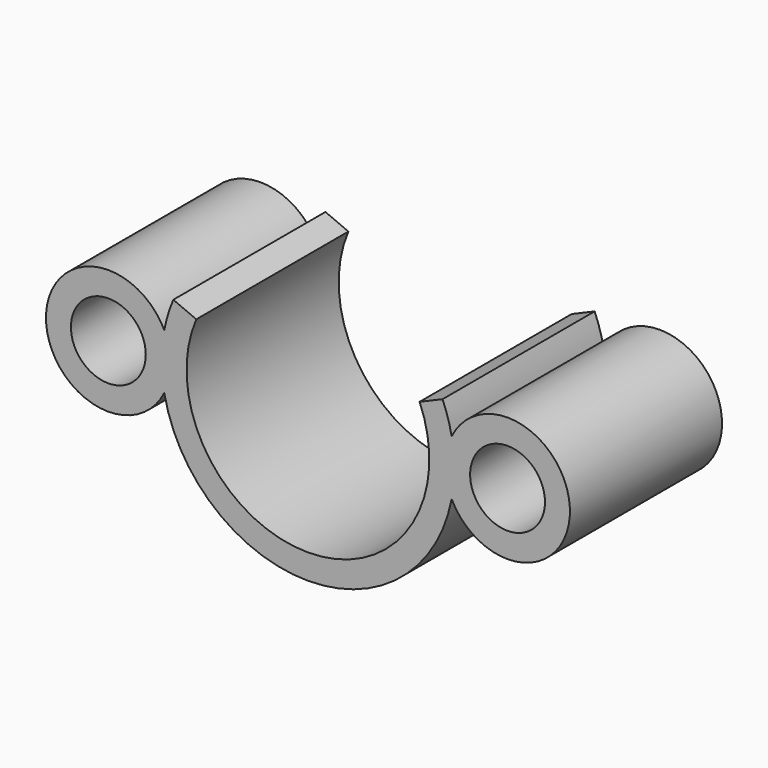
from build123d import *

# Parameters (mm, degrees)
F0_R     = 3.75
F1_DEPTH = 19.05


with BuildPart() as f1:
    # F0 (on Front) → F1 (new body)
    with BuildSketch(Plane.XZ):
        with BuildLine():
            ThreePointArc((11.187664, 4.765276), (0, -12.16025), (-11.187664, 4.765276))
            Line((-11.187664, 4.765276), (-13.487712, 5.744959))
            ThreePointArc((-13.487712, 5.744959), (-14.021327, 4.280807), (-14.396511, 2.768286))
            ThreePointArc((-14.396511, 2.768286), (-26.25, 0), (-14.396511, -2.768286))
            ThreePointArc((-14.396511, -2.768286), (0, -14.66025), (14.396511, -2.768286))
            ThreePointArc((14.396511, -2.768286), (26.25, 0), (14.396511, 2.768286))
            ThreePointArc((14.396511, 2.768286), (14.021327, 4.280807), (13.487712, 5.744959))
            Line((13.487712, 5.744959), (11.187664, 4.765276))
        make_face()
        with Locations((-20, 0)):
            Circle(F0_R, mode=Mode.SUBTRACT)
        with Locations((20, 0)):
            Circle(F0_R, mode=Mode.SUBTRACT)
    extrude(amount=-F1_DEPTH)


solid = f1.part
